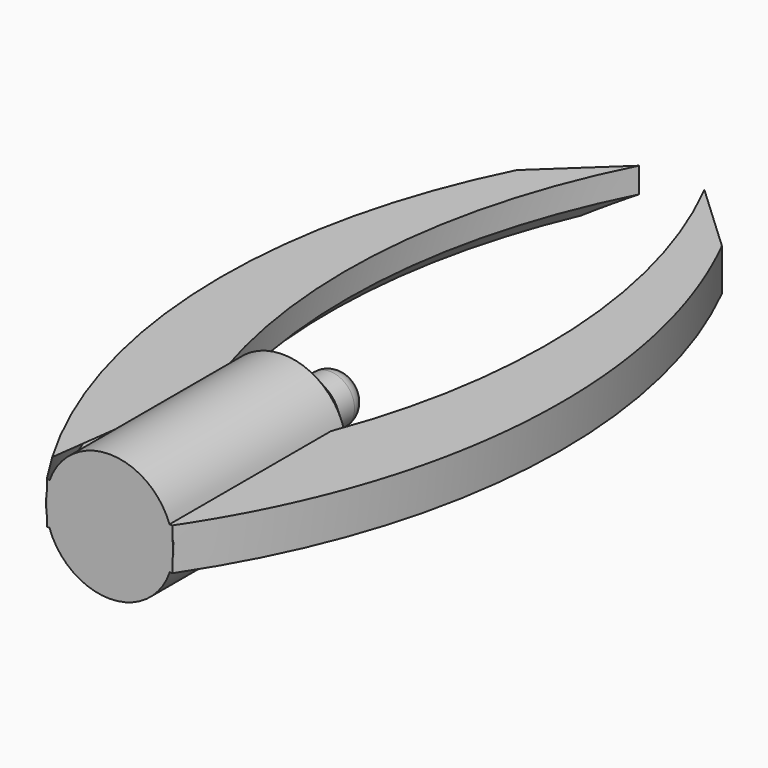
from build123d import *

# Parameters (mm, degrees)
F1_DEPTH      = 12.7
F2_R          = 19.182928
F3_DEPTH      = 25.4
F3_DEPTH_BACK = 50.038
F4_SIZE       = 5.08
F5_SIZE       = 5.08
F7_SIZE       = 10.16
F8_DEPTH      = 25.4
F9_R          = 7.424369
F10_DEPTH     = 12.7
F11_R         = 5.08


with BuildPart() as f1:
    # F0 (on Top) → F1 (new body)
    with BuildSketch(Plane.XY):
        with BuildLine():
            ThreePointArc((0, 0), (-30.025402, 91.916345), (-9.866807, 186.487854))
            Line((-9.866807, 186.487854), (-30.945918, 166.754231))
            ThreePointArc((-30.945918, 166.754231), (-49.35565, 53.867344), (0, -49.313989))
            ThreePointArc((0, -49.313989), (49.35565, 53.867344), (30.945918, 166.754231))
            Line((30.945918, 166.754231), (9.866807, 186.487854))
            ThreePointArc((9.866807, 186.487854), (30.025402, 91.916345), (0, 0))
        make_face()
    extrude(amount=F1_DEPTH)

    # F2 (on Front) → F3 (join, two sides)
    with BuildSketch(Plane.XZ) as f3_sk:
        with Locations((0, 6.249613)):
            Circle(F2_R)
    extrude(amount=F3_DEPTH)
    extrude(f3_sk.sketch, amount=-F3_DEPTH_BACK)

    # F4
    f4_edges = [f1.edges().sort_by_distance(p)[0] for p in [
        (30.006411, 111.929444, 0),
    ]]
    chamfer(f4_edges, length=F4_SIZE)

    # F5
    f5_edges = [f1.edges().sort_by_distance(p)[0] for p in [
        (-30.006411, 111.929444, 0),
    ]]
    chamfer(f5_edges, length=F5_SIZE)

    # F7
    f7_edges = [f1.edges().sort_by_distance(p)[0] for p in [
        (-19.182928, 50.038, 6.249613),
    ]]
    chamfer(f7_edges, length=F7_SIZE)

    # F6 (on face) → F8 (cut)
    with BuildSketch(Plane(origin=(0, 0, 0), x_dir=(1, 0, 0), z_dir=(0, 0, -1))):
        with BuildLine():
            ThreePointArc((18.952301, 25.4), (10.048538, 37.810623), (0, 49.313989))
            ThreePointArc((0, 49.313989), (-10.005119, 37.776212), (-18.952301, 25.4))
            Line((-18.952301, 25.4), (18.952301, 25.4))
        make_face()
    extrude(amount=-F8_DEPTH, mode=Mode.SUBTRACT)

    # F9 (on face) → F10 (join)
    with BuildSketch(Plane(origin=(0, 50.038, 0), x_dir=(-1, 0, 0), z_dir=(0, 1, 0))):
        with Locations((0, 6.249613)):
            Circle(F9_R)
    extrude(amount=F10_DEPTH)

    # F11
    f11_edges = [f1.edges().sort_by_distance(p)[0] for p in [
        (7.424369, 62.738, 6.249613),
    ]]
    fillet(f11_edges, radius=F11_R)


solid = f1.part
